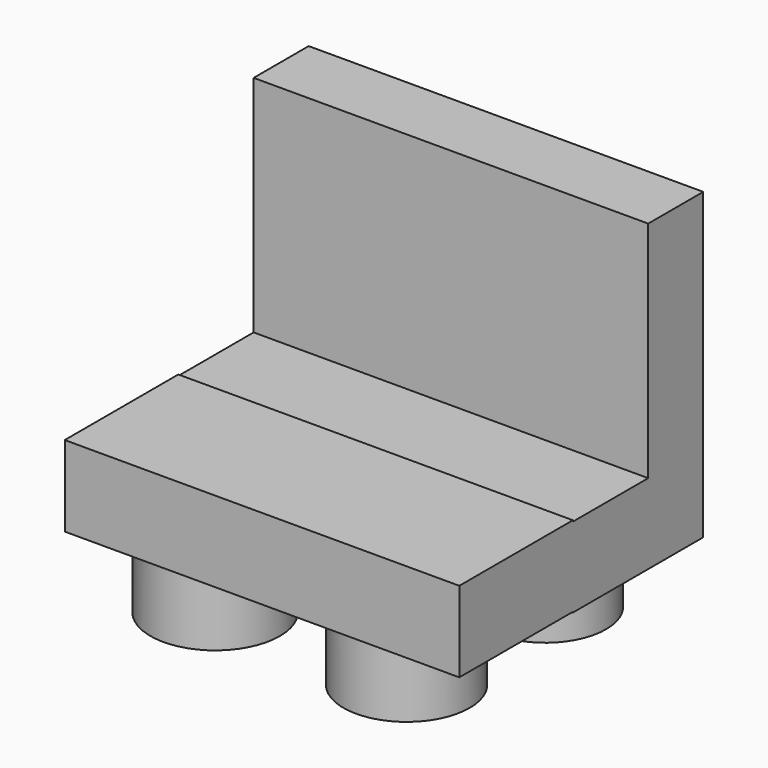
from build123d import *

# Parameters (mm, degrees)
F0_R     = 23.544816
F0_R_2   = 23.544819
F0_R_3   = 25.013609
F0_R_4   = 24.388662
F1_DEPTH = 25.4
F2_W     = 152.505256
F2_H     = 30.943092
F3_DEPTH = 62.992
F4_W     = 152.505256
F4_H     = 31.164114
F5_DEPTH = 54.864
F6_W     = 152.505256
F6_H     = 26.597274
F7_DEPTH = 86.614


with BuildPart() as f1:
    # F0 (on Top) → F1 (new body)
    with BuildSketch(Plane.XY):
        with Locations((-39.673466, 39.010402)):
            Circle(F0_R)
        with Locations((36.358133, 36.358137)):
            Circle(F0_R_2)
        with Locations((-39.231423, -28.622361)):
            Circle(F0_R_3)
        with Locations((35.474047, -29.506449)):
            Circle(F0_R_4)
    extrude(amount=F1_DEPTH)


with BuildPart() as f3:
    # F2 (on Front) → F3 (new body)
    with BuildSketch(Plane.XZ):
        with Locations((-0.110511, 41.220622)):
            Rectangle(F2_W, F2_H)
    extrude(amount=-F3_DEPTH)

    # F4 (on Front) → F5 (join)
    with BuildSketch(Plane.XZ):
        with Locations((-0.110511, 41.588744)):
            Rectangle(F4_W, F4_H)
    extrude(amount=F5_DEPTH)

    # F6 (on face) → F7 (join)
    with BuildSketch(Plane.XY.offset(56.692168)):
        with Locations((-0.110511, 49.693363)):
            Rectangle(F6_W, F6_H)
    extrude(amount=F7_DEPTH)


solid = Compound([f1.part, f3.part])
